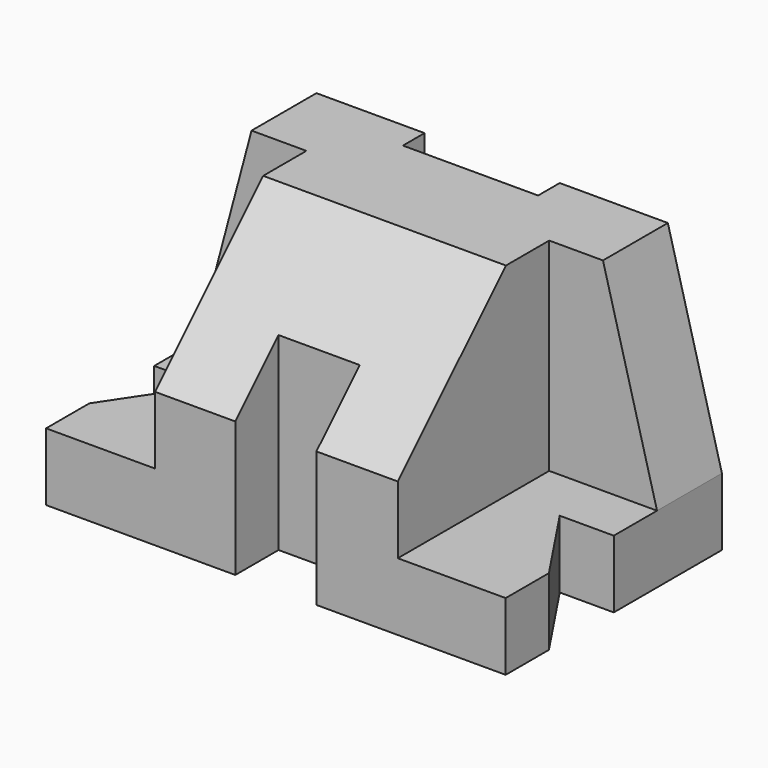
from build123d import *

# Parameters (mm, degrees)
PAD_DEPTH       = 100
SKETCH002_W     = 61.512183
SKETCH002_H     = 94.726295
SKETCH002_W_2   = 51.517512
SKETCH002_H_2   = 91.373596
POCKET_DEPTH    = 75
POCKET001_DEPTH = 129.705213
POCKET002_DEPTH = 30.001


with BuildPart() as part:
    # Sketch → Pad (new body)
    with BuildSketch(Plane.XY):
        Polygon((-85, 0), (-25, 0), (-25, -10), (25, -10), (25, 0), (85, 0), (85, -50), (65, -50), (85, -80), (85, -100), (15, -100), (15, -80), (-15, -80), (-15, -100), (-85, -100), (-85, -80), (-65, -50), (-85, -50), align=None)
    extrude(amount=PAD_DEPTH)

    # Sketch002 → Pocket (cut)
    with BuildSketch(Plane.XY.offset(100)):
        with Locations((75.860517, -77.363147)):
            Rectangle(SKETCH002_W, SKETCH002_H)
        with Locations((-70.462969, -75.686798)):
            Rectangle(SKETCH002_W_2, SKETCH002_H_2)
    extrude(amount=-POCKET_DEPTH, mode=Mode.SUBTRACT)

    # Sketch003 → Pocket001 (cut, through all)
    with BuildSketch(Plane(origin=(-44.704213, 0, 0), x_dir=(0, -1, 0), z_dir=(-1, 0, 0))):
        Polygon((100, 100), (100, 50), (50, 100), align=None)
    extrude(amount=-POCKET001_DEPTH, mode=Mode.SUBTRACT)

    # Sketch004 → Pocket002 (cut, through all)
    with BuildSketch(Plane.XZ.offset(30)):
        Polygon((-85, 100), (-65, 100), (-85, 25), align=None)
        Polygon((85, 100), (65, 100), (85, 25), align=None)
    extrude(amount=-POCKET002_DEPTH, mode=Mode.SUBTRACT)


solid = part.part
